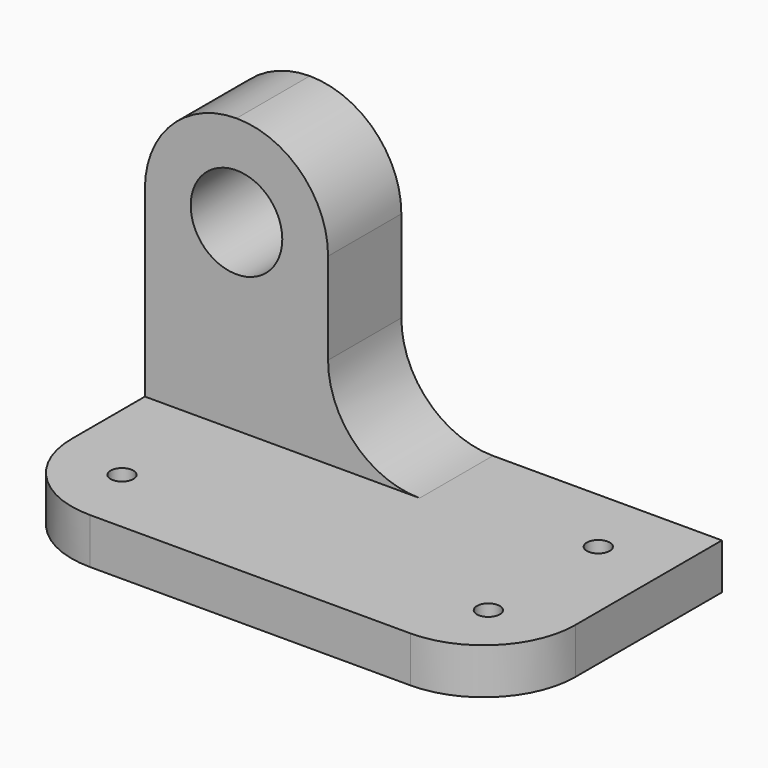
from build123d import *

# Parameters (mm, degrees)
F1_DEPTH  = 38.1
F2_W      = 25.4
F2_H      = 38.1
F3_DEPTH  = 25.4
F4_R      = 6.35
F5_DEPTH  = 12.7
F7_DEPTH  = 12.7
F8_W      = 12.7
F8_H      = 12.7
F9_DEPTH  = 12.7
F11_DEPTH = 12.7
F12_R     = 1.5875
F13_DEPTH = 6.35
F15_DEPTH = 6.35


with BuildPart() as f1:
    # F0 (on Front) → F1 (new body)
    with BuildSketch(Plane.XZ):
        Polygon((-17.457331, 44.45), (-42.857331, 44.45), (-42.857331, 0), (26.992669, 0), (26.992669, 6.35), (-17.457331, 6.35), align=None)
    extrude(amount=F1_DEPTH)

    # F2 (on face) → F3 (cut)
    with BuildSketch(Plane.XZ.offset(38.1)):
        with Locations((-30.157331, 25.4)):
            Rectangle(F2_W, F2_H)
    extrude(amount=-F3_DEPTH, mode=Mode.SUBTRACT)

    # F4 (on face) → F5 (cut)
    with BuildSketch(Plane.XZ.offset(12.7)):
        with Locations((-30.157331, 31.75)):
            Circle(F4_R)
    extrude(amount=-F5_DEPTH, mode=Mode.SUBTRACT)

    # F6 (on face) → F7 (cut)
    with BuildSketch(Plane.XZ.offset(12.7)):
        with BuildLine():
            ThreePointArc((-42.857331, 31.75), (-39.137587, 40.730256), (-30.157331, 44.45))
            Line((-30.157331, 44.45), (-42.857331, 44.45))
            Line((-42.857331, 44.45), (-42.857331, 31.75))
        make_face()
        with BuildLine():
            Line((-17.457331, 44.45), (-30.157331, 44.45))
            ThreePointArc((-30.157331, 44.45), (-21.177075, 40.730256), (-17.457331, 31.75))
            Line((-17.457331, 31.75), (-17.457331, 44.45))
        make_face()
    extrude(amount=-F7_DEPTH, mode=Mode.SUBTRACT)

    # F8 (on face) → F9 (join)
    with BuildSketch(Plane.XZ.offset(12.7)):
        with Locations((-11.107331, 12.7)):
            Rectangle(F8_W, F8_H)
    extrude(amount=-F9_DEPTH)

    # F10 (on face) → F11 (cut)
    with BuildSketch(Plane.XZ.offset(12.7)):
        with BuildLine():
            Line((-4.757331, 19.05), (-17.457331, 19.05))
            ThreePointArc((-17.457331, 19.05), (-13.737587, 10.069744), (-4.757331, 6.35))
            Line((-4.757331, 6.35), (-4.757331, 19.05))
        make_face()
    extrude(amount=-F11_DEPTH, mode=Mode.SUBTRACT)

    # F12 (on face) → F13 (cut)
    with BuildSketch(Plane.XY.offset(6.35)):
        with Locations((-33.332331, -28.575)):
            Circle(F12_R)
        with Locations((17.467669, -28.575)):
            Circle(F12_R)
        with Locations((17.467669, -9.525)):
            Circle(F12_R)
    extrude(amount=-F13_DEPTH, mode=Mode.SUBTRACT)

    # F14 (on face) → F15 (cut)
    with BuildSketch(Plane.XY.offset(6.35)):
        with BuildLine():
            ThreePointArc((-30.157331, -38.1), (-39.137587, -34.380256), (-42.857331, -25.4))
            Line((-42.857331, -25.4), (-42.857331, -38.1))
            Line((-42.857331, -38.1), (-30.157331, -38.1))
        make_face()
        with BuildLine():
            ThreePointArc((26.992669, -25.4), (23.272925, -34.380256), (14.292669, -38.1))
            Line((14.292669, -38.1), (26.992669, -38.1))
            Line((26.992669, -38.1), (26.992669, -25.4))
        make_face()
    extrude(amount=-F15_DEPTH, mode=Mode.SUBTRACT)


solid = f1.part
